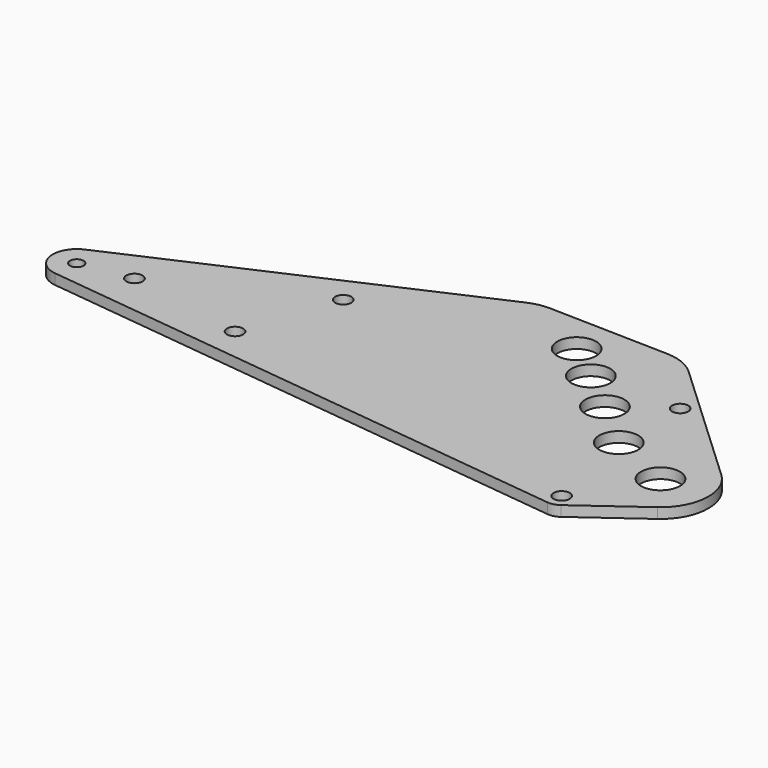
from build123d import *

# Parameters (mm, degrees)
SKETCH_R   = 15
SKETCH_R_2 = 6.25
PAD_DEPTH  = 8


with BuildPart() as part:
    # Sketch → Pad (new body)
    with BuildSketch(Plane.XY):
        with BuildLine():
            ThreePointArc((-7.543226, 16.892298), (-18.284536, -2.815273), (-2.1125, -18.378992))
            Line((-2.1125, -18.378992), (416.083897, -66.446904))
            ThreePointArc((416.083897, -66.446904), (420.501843, -66.131931), (424.504598, -64.235772))
            Line((424.504598, -64.235772), (471.738829, -29.940329))
            ThreePointArc((471.738829, -29.940329), (486.930116, -2.272998), (475.246411, 27.048452))
            Line((375.764429, 119.902673), (475.246411, 27.048452))
            ThreePointArc((375.764429, 119.902673), (364.508586, 127.107163), (351.427544, 129.84304))
            Line((259.292507, 132.108567), (351.427544, 129.84304))
            ThreePointArc((259.292507, 132.108567), (251.115722, 131.399038), (243.29653, 128.904344))
            Line((243.29653, 128.904344), (-7.543226, 16.892298))
        make_face()
        with Locations((304.622573, 100.984869)):
            Circle(SKETCH_R, mode=Mode.SUBTRACT)
        with Locations((365.151914, 52.530042)):
            Circle(SKETCH_R, mode=Mode.SUBTRACT)
        with Locations((333.42245, 78.605843)):
            Circle(SKETCH_R, mode=Mode.SUBTRACT)
        with Locations((417.454167, -54.525395)):
            Circle(SKETCH_R_2, mode=Mode.SUBTRACT)
        with Locations((130, -10)):
            Circle(SKETCH_R_2, mode=Mode.SUBTRACT)
        with Locations((155, 63)):
            Circle(SKETCH_R_2, mode=Mode.SUBTRACT)
        with Locations((39.52267, 6.161052)):
            Circle(SKETCH_R_2, mode=Mode.SUBTRACT)
        with Locations((402, 79)):
            Circle(SKETCH_R_2, mode=Mode.SUBTRACT)
        with BuildLine():
            ThreePointArc((5.221871, 0.542737), (-0.542737, 5.221871), (-5.221871, -0.542737))
            ThreePointArc((-5.221871, -0.542737), (0.542737, -5.221871), (5.221871, 0.542737))
        make_face(mode=Mode.SUBTRACT)
        with BuildLine():
            ThreePointArc((463.771661, -5.94486), (455.94486, 13.771661), (436.228339, 5.94486))
            ThreePointArc((436.228339, 5.94486), (444.05514, -13.771661), (463.771661, -5.94486))
        make_face(mode=Mode.SUBTRACT)
        with BuildLine():
            ThreePointArc((415.02967, 16.290529), (405.781984, 35.381896), (386.690617, 26.13421))
            ThreePointArc((386.690617, 26.13421), (395.938303, 7.042843), (415.02967, 16.290529))
        make_face(mode=Mode.SUBTRACT)
    extrude(amount=PAD_DEPTH)


solid = part.part
